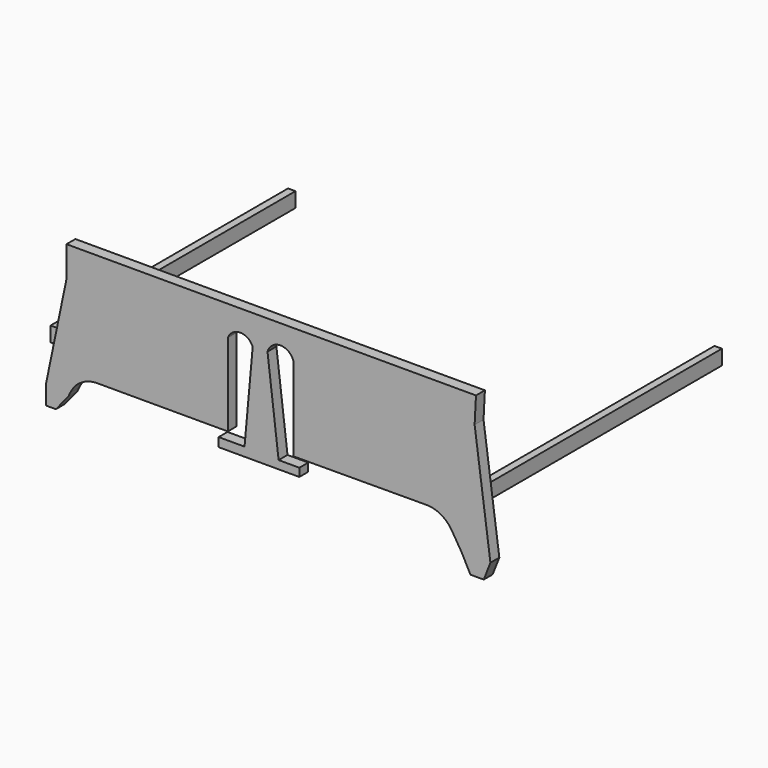
from build123d import *

# Parameters (mm, degrees)
F1_DEPTH = 0.9525
F2_W     = 1.27
F2_H     = 50.8
F3_DEPTH = 1.27
F4_R     = 5.08


with BuildPart() as f1:
    # F0 (on Front) → F1 (new body, symmetric)
    with BuildSketch(Plane.XZ):
        with BuildLine():
            Line((15.904324, 15.04276), (-54.155879, 15.04276))
            Line((-54.155879, 15.04276), (-54.155879, 9.78379))
            Line((-54.155879, 9.78379), (-57.645474, -7.056188))
            Line((-57.645474, -7.056188), (-57.645474, -10.404889))
            Line((-57.645474, -10.404889), (-55.97112, -10.404889))
            Line((-55.97112, -10.404889), (-53.818386, -7.773767))
            Line((-53.818386, -7.773767), (-52.144036, -4.185874))
            Line((-52.144036, -4.185874), (-26.550405, -4.185874))
            Line((-26.550405, -4.185874), (-26.550405, 9.926503))
            ThreePointArc((-26.550405, 9.926503), (-24.425041, 11.395424), (-22.299677, 9.926503))
            Line((-22.299677, 9.926503), (-23.693465, -5.546857))
            Line((-23.693465, -5.546857), (-28.128244, -5.546857))
            Line((-28.128244, -5.546857), (-28.128244, -7.067353))
            Line((-28.128244, -7.067353), (-14.317074, -7.067353))
            Line((-14.317074, -7.067353), (-14.317074, -5.673565))
            Line((-14.317074, -5.673565), (-17.864898, -5.673565))
            Line((-17.864898, -5.673565), (-19.765517, 10.038225))
            ThreePointArc((-19.765517, 10.038225), (-17.548127, 11.701358), (-15.330737, 10.038225))
            Line((-15.330737, 10.038225), (-15.330737, -4.279777))
            Line((-15.330737, -4.279777), (10.264277, -4.185874))
            Line((10.264277, -4.185874), (13.431975, -9.348096))
            Line((13.431975, -9.348096), (14.952471, -12.262381))
            Line((14.952471, -12.262381), (17.233215, -12.262381))
            Line((17.233215, -12.262381), (18.373586, -9.348096))
            Line((18.373586, -9.348096), (15.671084, 10.555249))
            Line((15.671084, 10.555249), (15.904324, 15.04276))
        make_face()
    extrude(amount=F1_DEPTH, both=True)

    # F4
    f4_edges = [f1.edges().sort_by_distance(p)[0] for p in [
        (-52.144036, 0, -4.185874),
        (10.264277, 0, -4.185874),
    ]]
    fillet(f4_edges, radius=F4_R)


with BuildPart() as f3:
    # F2 (on Top) → F3 (new body, symmetric)
    with BuildSketch(Plane.XY):
        with Locations((-57.010474, 25.4)):
            Rectangle(F2_W, F2_H)
        with Locations((15.943341, 25.4)):
            Rectangle(F2_W, F2_H)
    extrude(amount=F3_DEPTH, both=True)


solid = Compound([f1.part, f3.part])
